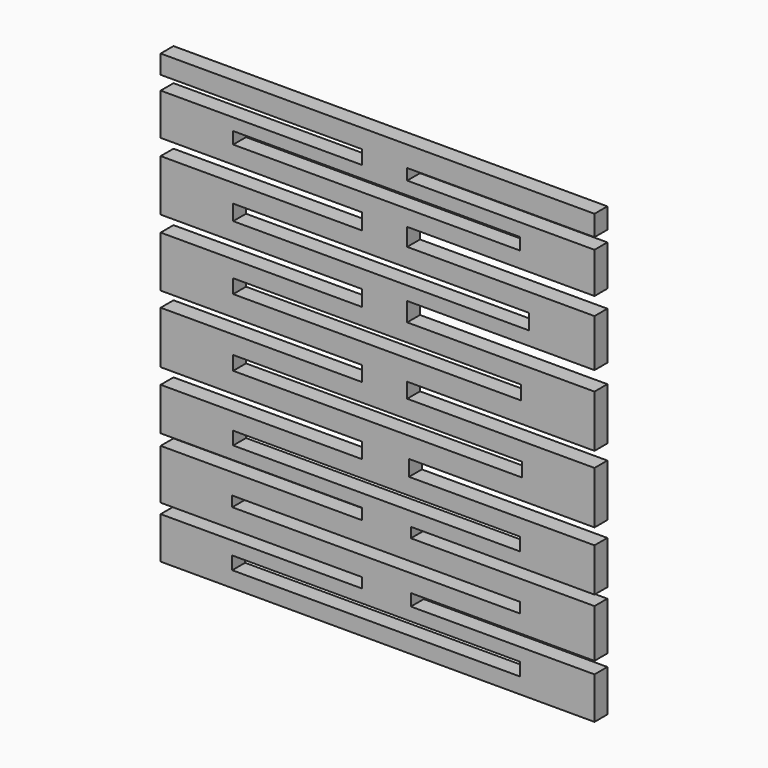
from build123d import *

# Parameters (mm, degrees)
F0_W     = 89.507591
F0_H     = 4.047405
F0_H_2   = 3.206663
F0_W_2   = 89.219786
F0_H_3   = 4.051941
F0_W_3   = 89.795395
F0_H_4   = 4.339748
F0_H_5   = 4.34881
F0_W_4   = 89.131403
F0_H_6   = 3.709744
F0_W_5   = 91.964136
F0_H_7   = 4.813378
F1_DEPTH = 5


with BuildPart() as f1:
    # F0 (on Front) → F1 (new body)
    with BuildSketch(Plane.XZ):
        Polygon((64.727969, 69.582537), (-70.183687, 69.582537), (-70.183687, 63.748978), (-7.506745, 63.748978), (-7.506745, 59.431892), (-70.183687, 59.431892), (-70.183687, 46.48063), (-7.506745, 46.48063), (-7.506745, 41.499555), (-70.183687, 41.499555), (-70.183687, 25.47081), (-7.506745, 25.47081), (-7.506745, 20.564513), (-70.183687, 20.564513), (-70.183687, 4.67401), (-7.506745, 4.67401), (-7.603418, 0), (-70.183687, 0), (-70.183687, -16.288219), (-7.506745, -16.288219), (-7.506745, -21.103866), (-70.183687, -21.103866), (-70.183687, -34.392789), (-7.626853, -34.392789), (-7.506745, -37.816998), (-70.183687, -37.816998), (-70.183687, -53.38797), (-7.626853, -53.38797), (-7.506745, -56.513045), (-70.183687, -56.513045), (-70.183687, -69.527753), (64.727969, -69.527753), (64.727969, -56.513045), (7.626853, -56.513045), (7.626853, -52.81236), (64.727969, -52.81236), (64.727969, -37.816998), (7.626853, -37.816998), (7.626853, -34.680594), (64.727969, -34.680594), (64.727969, -21.185448), (7.051241, -21.185448), (7.051241, -16.288219), (64.727969, -16.288219), (64.727969, 0), (6.47563, 0), (6.47563, 4.67401), (64.727969, 4.67401), (64.727969, 20.905621), (6.47563, 20.905621), (6.47563, 26.769336), (64.727969, 26.769336), (64.727969, 41.574333), (6.47563, 41.574333), (6.47563, 47.056243), (64.727969, 47.056243), (64.727969, 59.719693), (6.47563, 59.719693), (6.47563, 63.173369), (64.727969, 63.173369), align=None)
        with Locations((-3.165862, -62.606814)):
            Rectangle(F0_W, F0_H, mode=Mode.SUBTRACT)
        with Locations((-3.165862, -45.781515)):
            Rectangle(F0_W, F0_H_2, mode=Mode.SUBTRACT)
        with Locations((-3.021959, -28.360198)):
            Rectangle(F0_W_2, F0_H_3, mode=Mode.SUBTRACT)
        with Locations((-2.734154, -7.782086)):
            Rectangle(F0_W_3, F0_H_4, mode=Mode.SUBTRACT)
        with Locations((-2.878056, 13.223202)):
            Rectangle(F0_W, F0_H_5, mode=Mode.SUBTRACT)
        with Locations((-3.06615, 53.835543)):
            Rectangle(F0_W_4, F0_H_6, mode=Mode.SUBTRACT)
        with Locations((-1.649784, 33.425127)):
            Rectangle(F0_W_5, F0_H_7, mode=Mode.SUBTRACT)
    extrude(amount=F1_DEPTH)


solid = f1.part
